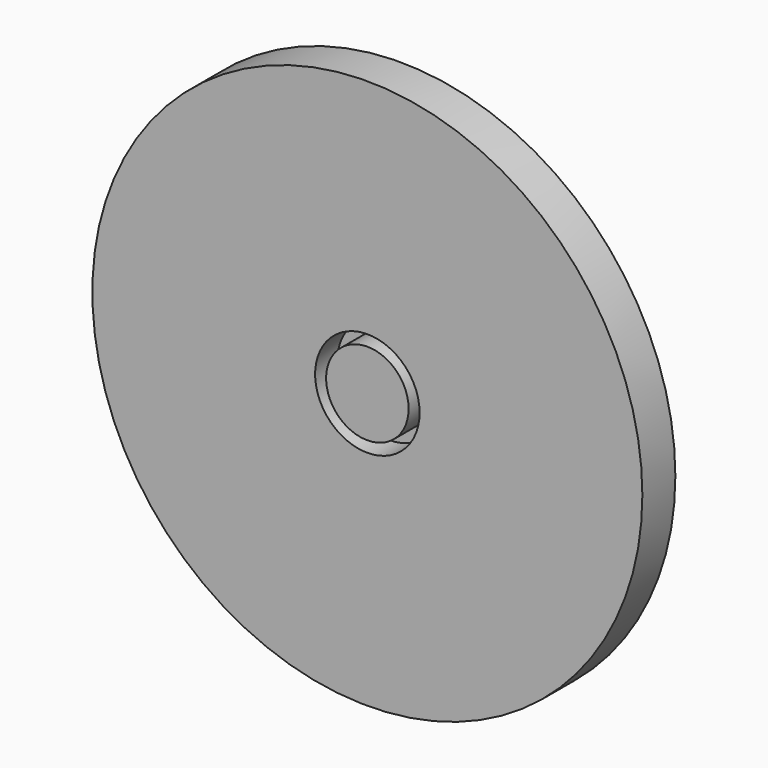
from build123d import *

# Parameters (mm, degrees)
F0_R     = 127
F0_R_2   = 24.13
F0_R_3   = 19.05
F1_DEPTH = 19.05
F2_DEPTH = 12.7


with BuildPart() as f1:
    # F0 (on Front) → F1 (new body)
    with BuildSketch(Plane.XZ):
        Circle(F0_R)
        Circle(F0_R_2, mode=Mode.SUBTRACT)
        Circle(F0_R_2)
        Circle(F0_R_3, mode=Mode.SUBTRACT)
        Circle(F0_R_3)
    extrude(amount=-F1_DEPTH)

    # F0 (on Front) → F2 (cut)
    with BuildSketch(Plane.XZ):
        Circle(F0_R_2)
        Circle(F0_R_3, mode=Mode.SUBTRACT)
    extrude(amount=-F2_DEPTH, mode=Mode.SUBTRACT)


solid = f1.part
